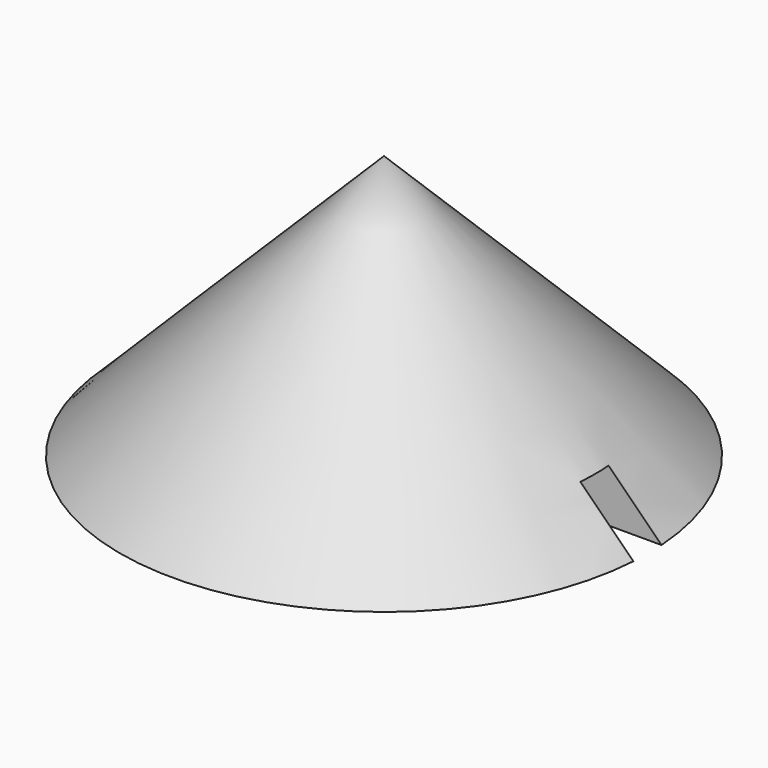
from build123d import *

# Parameters (mm, degrees)
F3_DEPTH = 3


with BuildPart() as f1:
    # F0 (on Front) → F1 (revolve)
    with BuildSketch(Plane.XZ):
        Polygon((-15, 0), (0, 0), (0, 15), align=None)
    revolve(axis=Axis((0, 0, 7.5), (0, 0, -1)))

    # F2 (on face) → F3 (cut)
    with BuildSketch(Plane(origin=(0, 0, 0), x_dir=(1, 0, 0), z_dir=(0, 0, -1))):
        with BuildLine():
            Line((14.96663, 1), (-14.96663, 1))
            ThreePointArc((-14.96663, 1), (-15, 0), (-14.96663, -1))
            Line((-14.96663, -1), (14.96663, -1))
            ThreePointArc((14.96663, -1), (14.991655, -0.500278), (15, 0))
            ThreePointArc((15, 0), (14.991655, 0.500278), (14.96663, 1))
        make_face()
    extrude(amount=-F3_DEPTH, mode=Mode.SUBTRACT)


solid = f1.part
